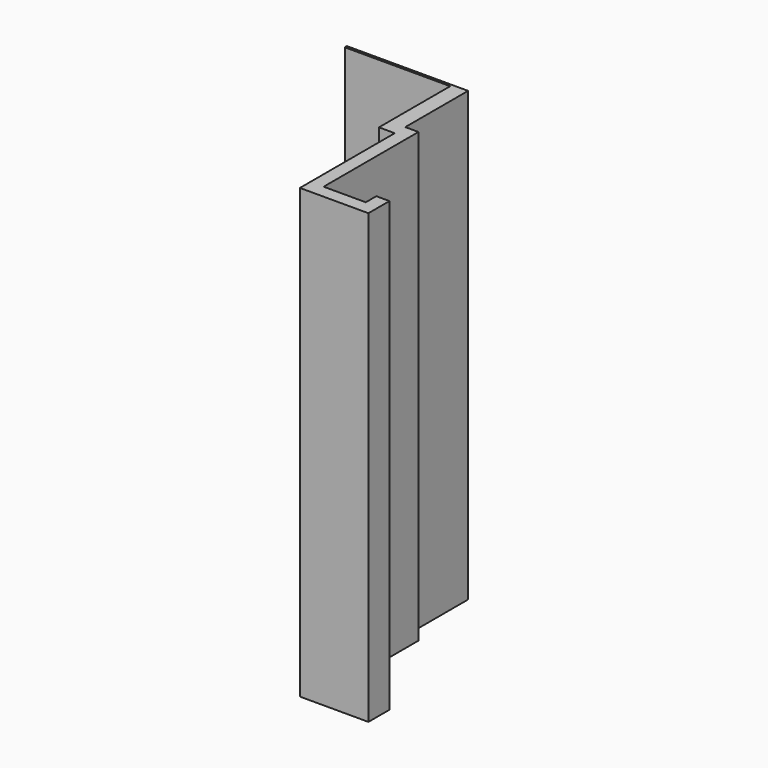
from build123d import *

# Parameters (mm, degrees)
F0_W     = 25.4
F0_H     = 0.635
F0_W_2   = 3.81
F0_H_2   = 18.288
F0_H_3   = 3.175
F0_W_3   = 3.175
F0_H_4   = 25.4
F0_W_4   = 10.16
F1_DEPTH = 107.95


with BuildPart() as f1:
    # F0 (on Top) → F1 (new body)
    with BuildSketch(Plane.XY):
        with Locations((-36.404586, 55.685953)):
            Rectangle(F0_W, F0_H)
        with Locations((-21.799586, 55.685953)):
            Rectangle(F0_W_2, F0_H)
        with Locations((-21.799586, 46.224453)):
            Rectangle(F0_W_2, F0_H_2)
        with Locations((-21.799586, 35.492953)):
            Rectangle(F0_W_2, F0_H_3)
        with Locations((-18.307086, 35.492953)):
            Rectangle(F0_W_3, F0_H_3)
        with Locations((-18.307086, 21.205453)):
            Rectangle(F0_W_3, F0_H_4)
        with Locations((-18.307086, 6.917953)):
            Rectangle(F0_W_3, F0_H_3)
        with Locations((-11.639586, 6.917953)):
            Rectangle(F0_W_4, F0_H_3)
        with Locations((-4.972086, 6.917953)):
            Rectangle(F0_W_3, F0_H_3)
        with Locations((-4.972086, 10.092953)):
            Rectangle(F0_W_3, F0_H_3)
    extrude(amount=F1_DEPTH)


solid = f1.part
